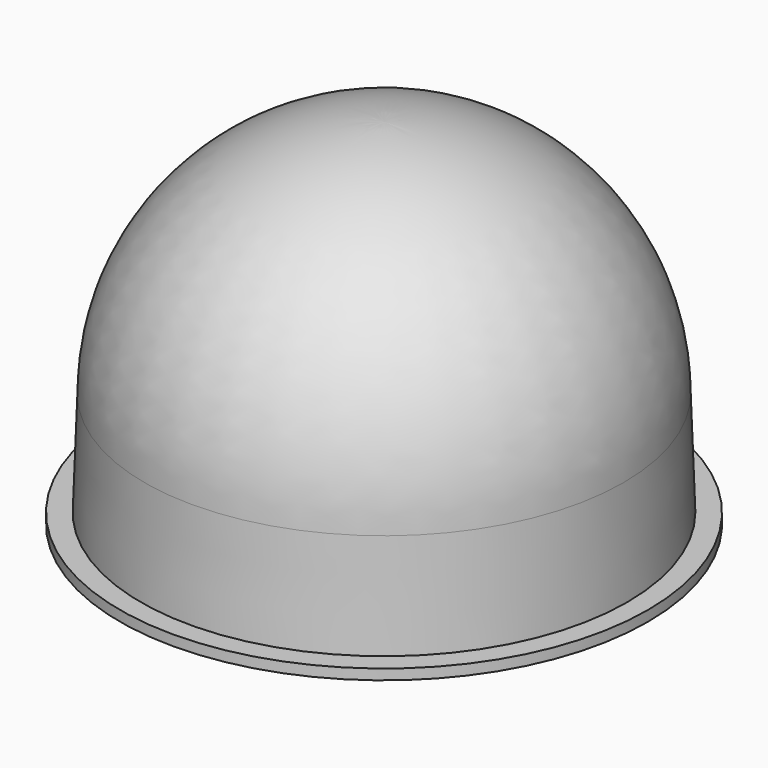
from build123d import *


with BuildPart() as f1:
    # F0 (on Front) → F1 (revolve)
    with BuildSketch(Plane.XZ):
        with BuildLine():
            ThreePointArc((0, 44), (31.112698, 31.112698), (44, 0))
            Line((44, 0), (44.698415, -20))
            Line((44.698415, -20), (44.768257, -22))
            Line((44.768257, -22), (50.698415, -22))
            Line((50.698415, -22), (50.698415, -20))
            Line((50.698415, -20), (46.698415, -20))
            Line((46.698415, -20), (46, 0))
            ThreePointArc((46, 0), (32.526912, 32.526912), (0, 46))
            Line((0, 46), (0, 44))
        make_face()
    revolve(axis=Axis((0, 0, 20.051346), (0, 0, 1)))


solid = f1.part
